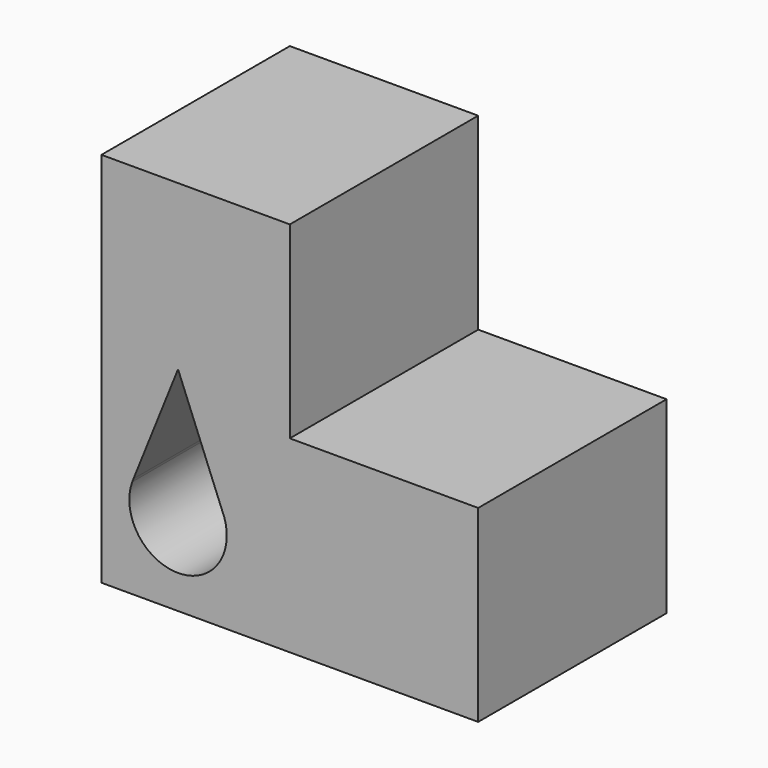
from build123d import *

# Parameters (mm, degrees)
F0_W     = 20
F0_H     = 20
F1_DEPTH = 25


with BuildPart() as f1:
    # F0 (on Front) → F1 (new body)
    with BuildSketch(Plane.XZ):
        Polygon((0, 4.873418), (0, 0), (20, 0), (20, 20), (20, 40), (0, 40), align=None)
        with BuildLine():
            ThreePointArc((3.263231, 10.481385), (3.330913, 10.659271), (3.405091, 10.834548))
            Line((3.405091, 10.834548), (8.132556, 22.603722))
            Line((8.132556, 22.603722), (12.795818, 10.973252))
            ThreePointArc((12.795818, 10.973252), (8.399199, 3.562881), (3.263231, 10.481385))
        make_face(mode=Mode.SUBTRACT)
        with Locations((30, 10)):
            Rectangle(F0_W, F0_H)
    extrude(amount=F1_DEPTH)


solid = f1.part
